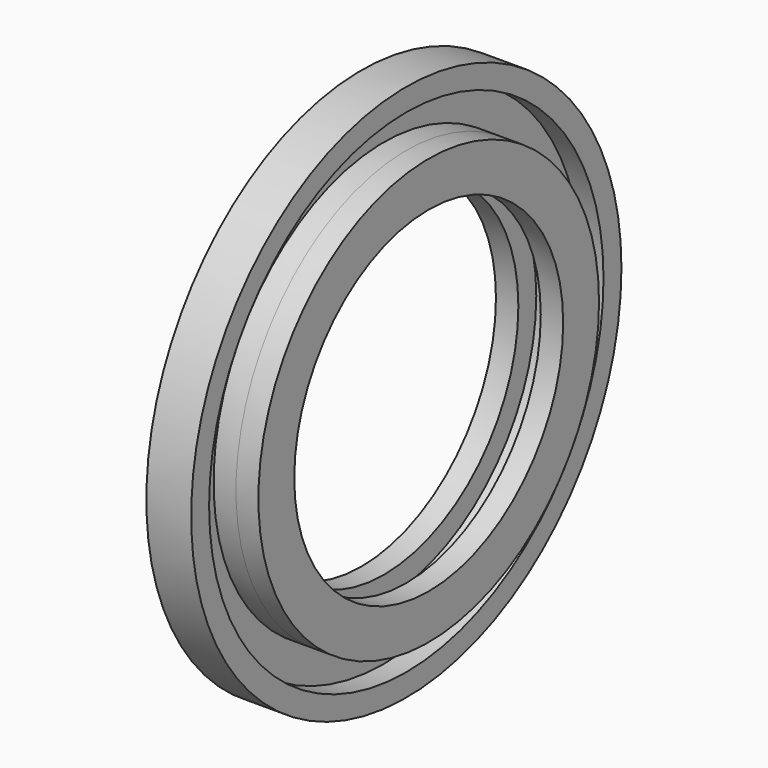
from build123d import *

# Parameters (mm, degrees)
F0_R     = 457.2
F0_R_2   = 419.1
F0_R_3   = 361.95
F0_R_4   = 323.85
F1_DEPTH = 76.2
F2_R     = 419.1
F2_R_2   = 361.95
F3_DEPTH = 38.1
F4_DEPTH = 38.1
F5_R     = 323.85
F5_R_2   = 285.75
F6_DEPTH = 38.1
F7_R     = 323.85
F7_R_2   = 285.75
F8_DEPTH = 38.1


with BuildPart() as f1:
    # F0 (on Right) → F1 (new body)
    with BuildSketch(Plane.YZ):
        Circle(F0_R)
        Circle(F0_R_2, mode=Mode.SUBTRACT)
        Circle(F0_R_2)
        Circle(F0_R_3, mode=Mode.SUBTRACT)
        Circle(F0_R_3)
        Circle(F0_R_4, mode=Mode.SUBTRACT)
    extrude(amount=F1_DEPTH)

    # F2 (on face) → F3 (cut)
    with BuildSketch(Plane.YZ.offset(76.2)):
        Circle(F2_R)
        Circle(F2_R_2, mode=Mode.SUBTRACT)
    extrude(amount=-F3_DEPTH, mode=Mode.SUBTRACT)

    # F4 (add): a face of the model
    f4_faces = [f1.faces().sort_by_distance(p)[0] for p in [
        (76.2, -351.712508022, 0),
    ]]
    extrude(f4_faces, amount=F4_DEPTH)

    # F5 (on Right) → F6 (join)
    with BuildSketch(Plane.YZ):
        Circle(F5_R)
        Circle(F5_R_2, mode=Mode.SUBTRACT)
    extrude(amount=F6_DEPTH)

    # F7 (on face) → F8 (join)
    with BuildSketch(Plane.YZ.offset(114.3)):
        Circle(F7_R)
        Circle(F7_R_2, mode=Mode.SUBTRACT)
    extrude(amount=-F8_DEPTH)


solid = f1.part
